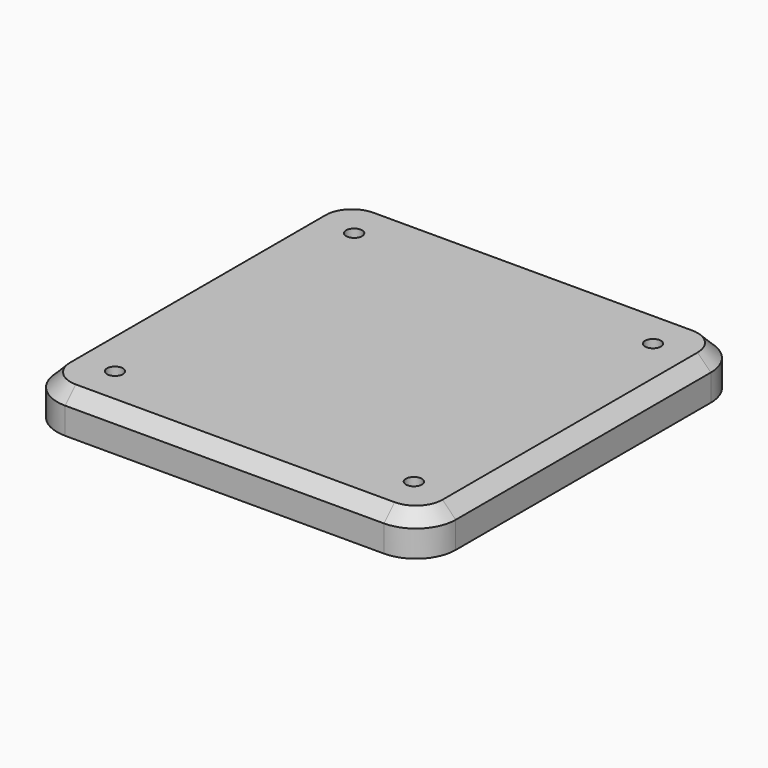
from build123d import *

# Parameters (mm, degrees)
F1_DEPTH = 30
F2_SIZE  = 10
F4_D     = 12
F4_DEPTH = 10
F4_TIP   = 3.6051637142
F6_D     = 12
F6_DEPTH = 10
F6_TIP   = 3.6051637142


with BuildPart() as f1:
    # F0 (on Top) → F1 (new body)
    with BuildSketch(Plane.XY):
        with BuildLine():
            Line((120, 150), (-120, 150))
            ThreePointArc((-120, 150), (-141.2132034356, 141.2132034356), (-150, 120))
            Line((-150, 120), (-150, -120))
            ThreePointArc((-150, -120), (-141.2132034356, -141.2132034356), (-120, -150))
            Line((-120, -150), (120, -150))
            ThreePointArc((120, -150), (141.2132034356, -141.2132034356), (150, -120))
            Line((150, -120), (150, 120))
            ThreePointArc((150, 120), (141.2132034356, 141.2132034356), (120, 150))
        make_face()
    extrude(amount=F1_DEPTH)

    # F2
    f2_edges = [f1.edges().sort_by_distance(p)[0] for p in [
        (-150, 0, 30),
    ]]
    chamfer(f2_edges, length=F2_SIZE)

    # F4
    with Locations(Plane.XY.offset(30)):
        with Locations((-112.5, 112.5), (-112.5, -112.5), (112.5, 112.5), (112.5, -112.5)):
            Hole(F4_D / 2, depth=F4_DEPTH)
            with Locations((0, 0, -(F4_DEPTH + F4_TIP / 2))):  # 118° drill point
                Cone(0, F4_D / 2, F4_TIP, mode=Mode.SUBTRACT)

    # F6
    with Locations(Plane(origin=(0, 0, 0), x_dir=(1, 0, 0), z_dir=(0, 0, -1))):
        with Locations((-125, 125), (125, 125), (125, -125), (-125, -125)):
            Hole(F6_D / 2, depth=F6_DEPTH)
            with Locations((0, 0, -(F6_DEPTH + F6_TIP / 2))):  # 118° drill point
                Cone(0, F6_D / 2, F6_TIP, mode=Mode.SUBTRACT)


solid = f1.part
